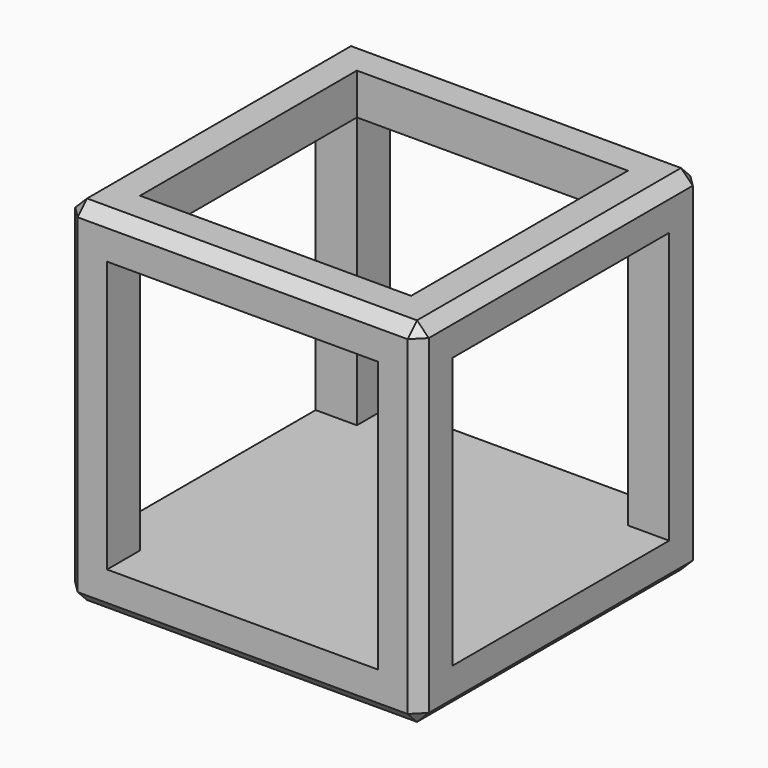
from build123d import *

# Parameters (mm, degrees)
F0_W     = 152.4
F0_H     = 152.4
F1_DEPTH = 152.4
F2_W     = 116.84
F2_H     = 116.84
F3_DEPTH = 152.401
F4_W     = 116.84
F4_H     = 116.84
F5_DEPTH = 152.401
F6_W     = 116.84
F6_H     = 116.84
F7_DEPTH = 17.78
F8_SIZE  = 5.08


with BuildPart() as f1:
    # F0 (on Top) → F1 (new body)
    with BuildSketch(Plane.XY):
        with Locations((-76.2, 76.2)):
            Rectangle(F0_W, F0_H)
    extrude(amount=F1_DEPTH)

    # F2 (on face) → F3 (cut, through all)
    with BuildSketch(Plane.XZ):
        with Locations((-76.2, 76.2)):
            Rectangle(F2_W, F2_H)
    extrude(amount=-F3_DEPTH, mode=Mode.SUBTRACT)

    # F4 (on face) → F5 (cut, through all)
    with BuildSketch(Plane.YZ):
        with Locations((76.2, 76.2)):
            Rectangle(F4_W, F4_H)
    extrude(amount=-F5_DEPTH, mode=Mode.SUBTRACT)

    # F6 (on face) → F7 (cut)
    with BuildSketch(Plane.XY.offset(152.4)):
        with Locations((-76.2, 76.2)):
            Rectangle(F6_W, F6_H)
    extrude(amount=-F7_DEPTH, mode=Mode.SUBTRACT)

    # F8
    f8_edges = [f1.edges().sort_by_distance(p)[0] for p in [
        (-76.2, 0, 152.4),
        (0, 76.2, 152.4),
        (0, 0, 76.2),
        (-76.2, 152.4, 152.4),
        (-152.4, 76.2, 152.4),
        (0, 152.4, 76.2),
        (-152.4, 152.4, 76.2),
        (-152.4, 0, 76.2),
        (-76.2, 0, 0),
        (0, 76.2, 0),
        (-76.2, 152.4, 0),
        (-152.4, 76.2, 0),
    ]]
    chamfer(f8_edges, length=F8_SIZE)


solid = f1.part
